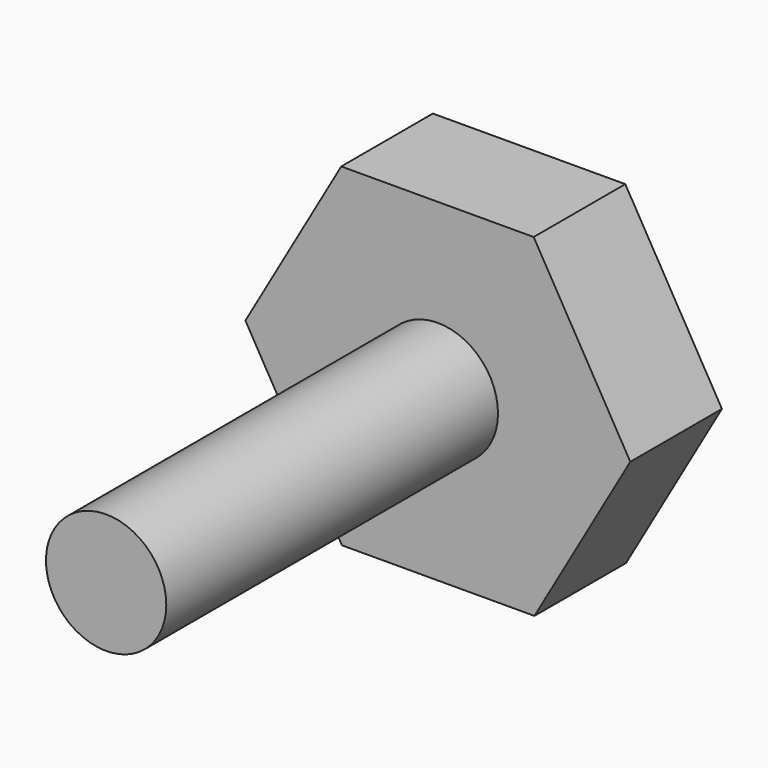
from build123d import *

# Parameters (mm, degrees)
F1_DEPTH = 12.7
F2_R     = 6.669357
F3_DEPTH = 45.974


with BuildPart() as f1:
    # F0 (on Front) → F1 (new body)
    with BuildSketch(Plane.XZ):
        Polygon((-10.710431, 18.454035), (-21.336878, -0.048488), (-10.626448, -18.502522), (10.710431, -18.454035), (21.336878, 0.048488), (10.626448, 18.502522), align=None)
    extrude(amount=-F1_DEPTH)

    # F2 (on face) → F3 (join)
    with BuildSketch(Plane.XZ):
        Circle(F2_R)
    extrude(amount=F3_DEPTH)


solid = f1.part
